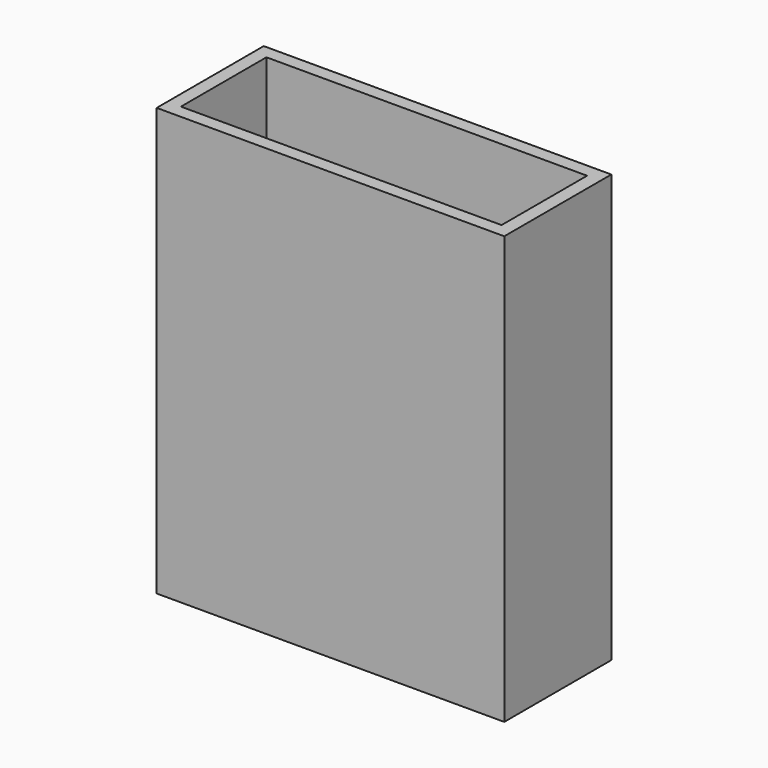
from build123d import *

# Parameters (mm, degrees)
BOX005_W     = 38.1
BOX005_H     = 12.7
BOX005_DEPTH = 50.8
BOX006_W     = 41.3004
BOX006_H     = 15.9004
BOX006_DEPTH = 50.8


with BuildPart() as cube005:
    # Box005 → Box005 (new body)
    with BuildSketch(Plane(origin=(1.6002, 1.6002, 1.6002), x_dir=(1, 0, 0), z_dir=(0, 0, 1))):
        with Locations((19.05, 6.35)):
            Rectangle(BOX005_W, BOX005_H)
    extrude(amount=BOX005_DEPTH)


with BuildPart() as cut002:
    # Box006 → Box006 (new body)
    with BuildSketch(Plane.XY):
        with Locations((20.6502, 7.9502)):
            Rectangle(BOX006_W, BOX006_H)
    extrude(amount=BOX006_DEPTH)

    # Cut002: cut Cube005
    add(cube005.part, mode=Mode.SUBTRACT)


with BuildPart() as cut002_1:
    # Cut002 placement: moved
    add(cut002.part.moved(Location((-15.8242, -7.874, -1.6002))))


solid = cut002_1.part
